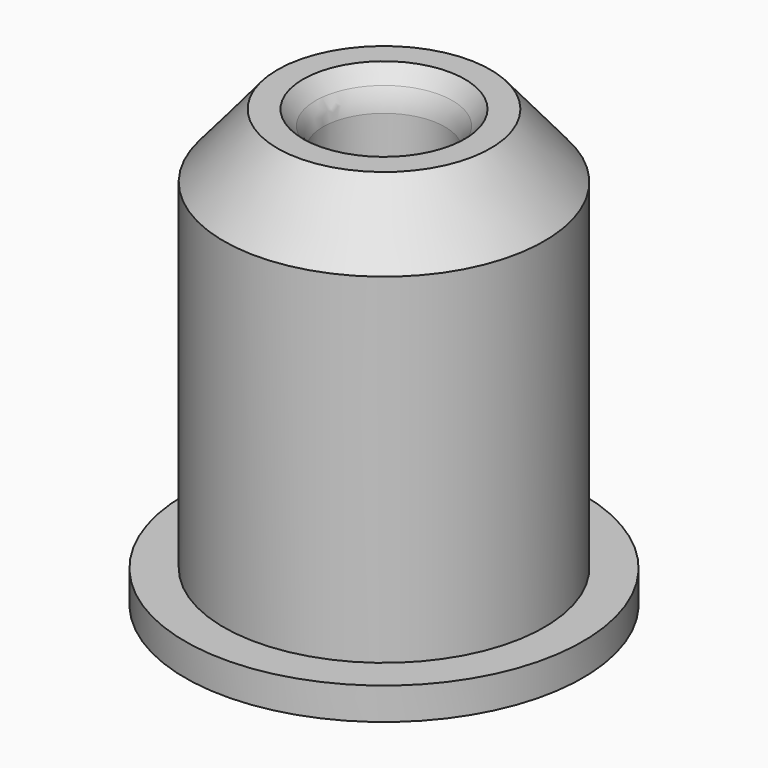
from build123d import *

# Parameters (mm, degrees)
F2_R = 5


with BuildPart() as f1:
    # F0 (on Front) → F1 (revolve)
    with BuildSketch(Plane.XZ):
        Polygon((-31, 0), (-20, 0), (-20, 46), (-9.5, 46), (-9.5, 64.294834), (-12.609004, 68), (-16.609004, 68), (-25, 58), (-25, 5), (-31, 5), align=None)
    revolve(axis=Axis((0, 0, 34), (0, 0, 1)))

    # F2
    f2_edges = [f1.edges().sort_by_distance(p)[0] for p in [
        (9.5, 0, 64.294834),
    ]]
    fillet(f2_edges, radius=F2_R)


solid = f1.part
